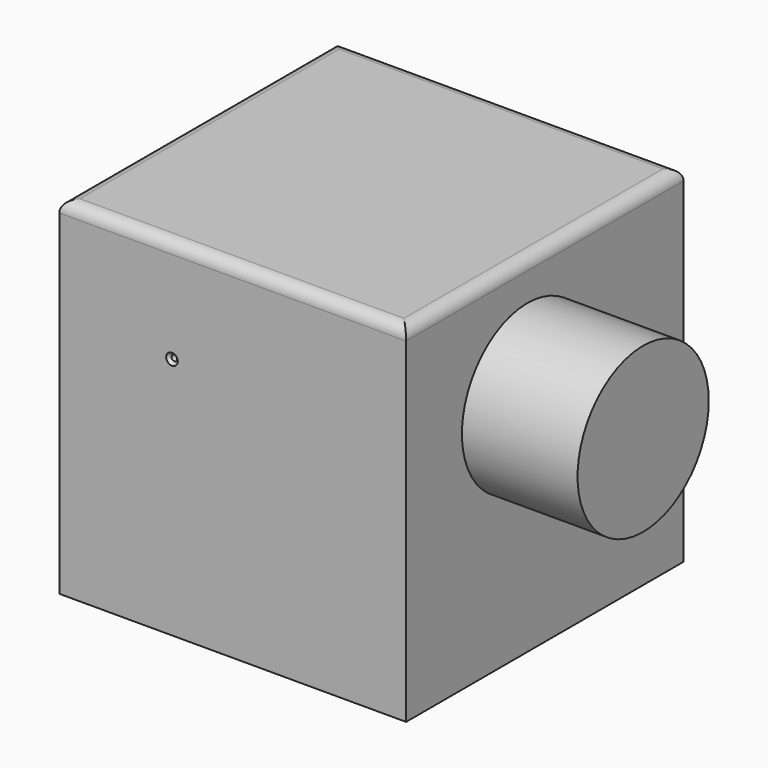
from build123d import *

# Parameters (mm, degrees)
F0_W           = 381
F0_H           = 381
F1_DEPTH       = 381
F3_D           = 6.35
F3_CSINK_D     = 12.7
F3_CSINK_ANGLE = 90
F4_R           = 12.7
F5_R           = 90.072303
F6_DEPTH       = 127


with BuildPart() as f1:
    # F0 (on Front) → F1 (new body)
    with BuildSketch(Plane.XZ):
        with Locations((190.5, 190.5)):
            Rectangle(F0_W, F0_H)
    extrude(amount=F1_DEPTH)

    # F3 (through all)
    with Locations(Plane.XZ.offset(381)):
        with Locations((123.825006, 267.081022)):
            CounterSinkHole(F3_D / 2, F3_CSINK_D / 2, counter_sink_angle=F3_CSINK_ANGLE)

    # F4
    f4_edges = [f1.edges().sort_by_distance(p)[0] for p in [
        (381, -190.5, 381),
        (0, -190.5, 381),
        (190.5, 0, 381),
        (190.5, -381, 381),
    ]]
    fillet(f4_edges, radius=F4_R)

    # F5 (on face) → F6 (join)
    with BuildSketch(Plane.YZ.offset(381)):
        with Locations((-214.303002, 247.298166)):
            Circle(F5_R)
    extrude(amount=F6_DEPTH)


solid = f1.part
